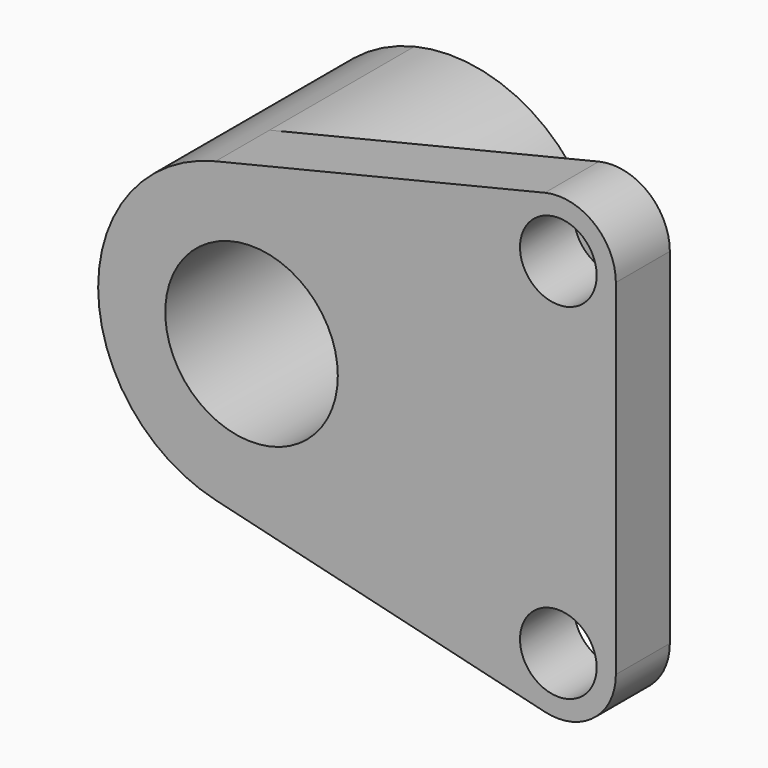
from build123d import *

# Parameters (mm, degrees)
F0_R        = 14.2875
F1_DEPTH    = 41.148
F0_R_2      = 6.35
F1_FACE_R   = 25.4
F1_FACE_R_2 = 14.2875
F2_DEPTH    = 11.176
F3_SIZE2    = 2.032
F3_SIZE     = 2.032


with BuildPart() as f1:
    # F0 (on Front) → F1 (new body)
    with BuildSketch(Plane.XZ):
        with BuildLine():
            ThreePointArc((-5.9521693415, -24.692745496), (15.7158343515, -19.9542614656), (25.4, 0))
            ThreePointArc((25.4, 0), (15.7158343515, 19.9542614656), (-5.9521693415, 24.692745496))
            ThreePointArc((-5.9521693415, 24.692745496), (-25.4, 0), (-5.9521693415, -24.692745496))
        make_face()
        Circle(F0_R, mode=Mode.SUBTRACT)
    extrude(amount=-F1_DEPTH)

    # F0 (on Front) + F1_face (on face) → F2 (join)
    with BuildSketch(Plane.XZ):
        with BuildLine():
            ThreePointArc((-5.9521693415, -24.692745496), (15.7158343515, -19.9542614656), (25.4, 0))
            ThreePointArc((25.4, 0), (15.7158343515, 19.9542614656), (-5.9521693415, 24.692745496))
            ThreePointArc((-5.9521693415, 24.692745496), (-25.4, 0), (-5.9521693415, -24.692745496))
        make_face()
        Circle(F0_R, mode=Mode.SUBTRACT)
        with BuildLine():
            ThreePointArc((-5.9521693415, 24.692745496), (15.7158343515, 19.9542614656), (25.4, 0))
            ThreePointArc((25.4, 0), (15.7158343515, -19.9542614656), (-5.9521693415, -24.692745496))
            Line((-5.9521693415, -24.692745496), (48.5679364969, -37.834779561))
            ThreePointArc((48.5679364969, -37.834779561), (56.6934378818, -36.0578480496), (60.325, -28.575))
            Line((60.325, -28.575), (60.325, 28.575))
            ThreePointArc((60.325, 28.575), (56.6934378818, 36.0578480496), (48.5679364969, 37.834779561))
            Line((48.5679364969, 37.834779561), (-5.9521693415, 24.692745496))
        make_face()
        with Locations((50.8, -28.575)):
            Circle(F0_R_2, mode=Mode.SUBTRACT)
        with Locations((50.8, 28.575)):
            Circle(F0_R_2, mode=Mode.SUBTRACT)
    with BuildSketch(Plane.XZ):
        Circle(F1_FACE_R)
        Circle(F1_FACE_R_2, mode=Mode.SUBTRACT)
    extrude(amount=-F2_DEPTH)

    # F3
    f3_edges = [f1.edges().sort_by_distance(p)[0] for p in [
        (-14.2875, 41.148, 0),
    ]]
    chamfer(f3_edges, length=F3_SIZE, length2=F3_SIZE2)


solid = f1.part
